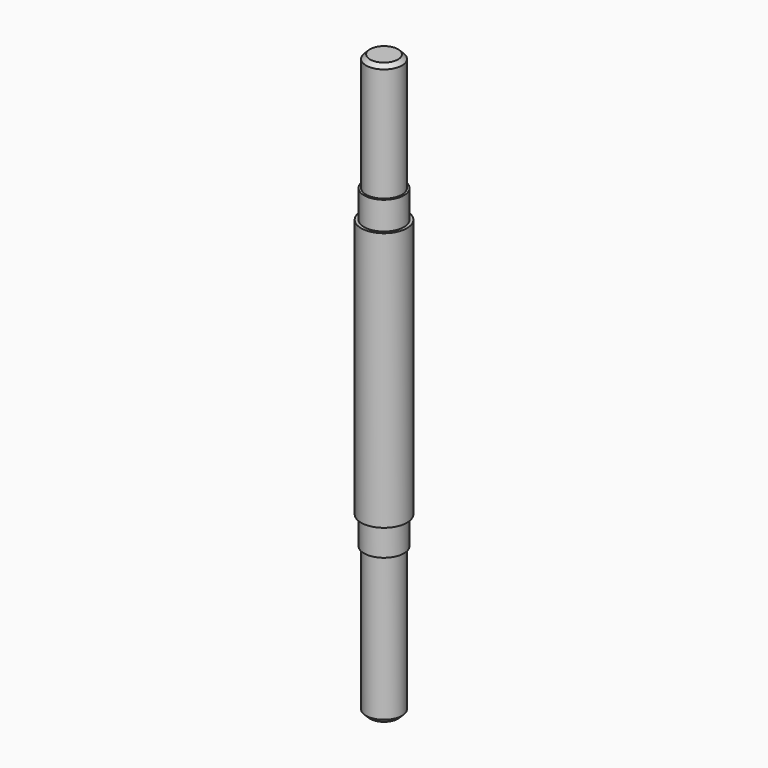
from build123d import *

# Parameters (mm, degrees)
SKETCH_R     = 5.75
PAD_DEPTH    = 65
SKETCH001_R  = 5
PAD001_DEPTH = 7
SKETCH002_R  = 4.5
PAD002_DEPTH = 29.5
SKETCH003_R  = 5
PAD003_DEPTH = 7
SKETCH004_R  = 4.5
PAD004_DEPTH = 37
CHAMFER_SIZE = 1


with BuildPart() as part:
    # Sketch → Pad (new body)
    with BuildSketch(Plane.XY):
        Circle(SKETCH_R)
    extrude(amount=PAD_DEPTH)

    # Sketch001 (on Face3 of Pad) → Pad001 (join)
    with BuildSketch(Plane.XY.offset(65)):
        Circle(SKETCH001_R)
    extrude(amount=PAD001_DEPTH)

    # Sketch002 (on Face5 of Pad001) → Pad002 (join)
    with BuildSketch(Plane.XY.offset(72)):
        Circle(SKETCH002_R)
    extrude(amount=PAD002_DEPTH)

    # Sketch003 (on Face2 of Pad002) → Pad003 (join)
    with BuildSketch(Plane(origin=(0, 0, 0), x_dir=(1, 0, 0), z_dir=(0, 0, -1))):
        Circle(SKETCH003_R)
    extrude(amount=PAD003_DEPTH)

    # Sketch004 (on Face6 of Pad003) → Pad004 (join)
    with BuildSketch(Plane(origin=(0, 0, -7), x_dir=(1, 0, 0), z_dir=(0, 0, -1))):
        Circle(SKETCH004_R)
    extrude(amount=PAD004_DEPTH)

    # Chamfer
    chamfer_edges = [part.edges().sort_by_distance(p)[0] for p in [
        (-4.5, 0, -44),
        (-4.5, 0, 101.5),
    ]]
    chamfer(chamfer_edges, length=CHAMFER_SIZE)


solid = part.part
